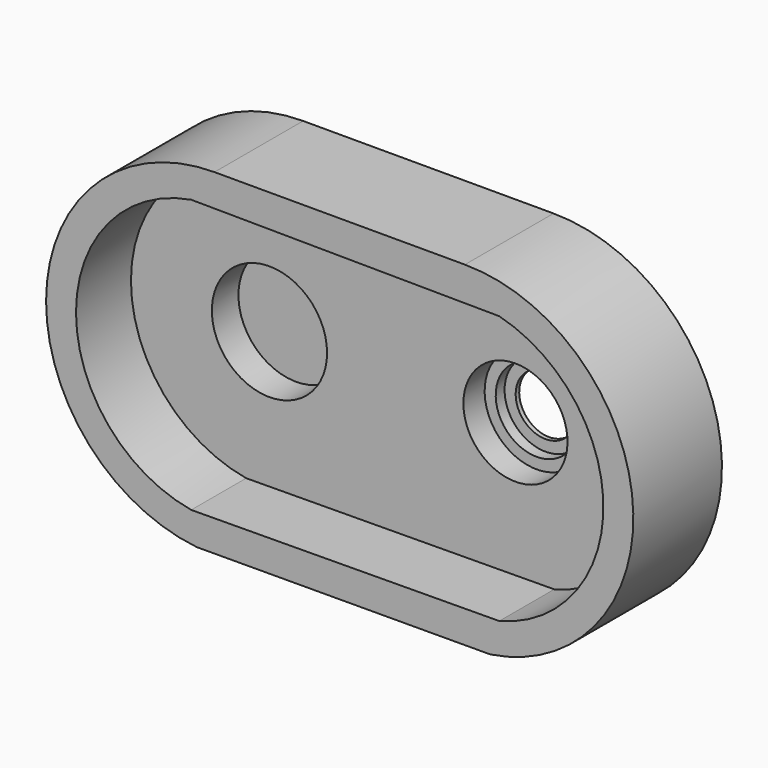
from build123d import *

# Parameters (mm, degrees)
F1_DEPTH = 50
F4_DEPTH = 47
F5_R     = 26
F6_DEPTH = 15
F8_W     = 2
F8_H     = 13.5


with BuildPart() as f1:
    # F0 (on Front) → F1 (new body)
    with BuildSketch(Plane.XZ):
        with BuildLine():
            ThreePointArc((56.5, 50.8306010195), (30.9263182623, 69.4230713721), (0, 76))
            ThreePointArc((0, 76), (-75.8948480637, 3.9965031459), (-7.9819473433, -75.5796832264))
            Line((-7.9819473433, -75.5796832264), (8.4910760519, -75.5241790917))
            ThreePointArc((8.4910760519, -75.5241790917), (34.7620941702, -67.5839981719), (56.5, -50.8306010195))
            ThreePointArc((56.5, -50.8306010195), (37, 0), (56.5, 50.8306010195))
        make_face()
        with BuildLine():
            Line((113, 76), (0, 76))
            ThreePointArc((0, 76), (30.9263182623, 69.4230713721), (56.5, 50.8306010195))
            ThreePointArc((56.5, 50.8306010195), (82.0736817377, 69.4230713721), (113, 76))
        make_face()
        with BuildLine():
            ThreePointArc((113, 76), (82.0736817377, 69.4230713721), (56.5, 50.8306010195))
            ThreePointArc((56.5, 50.8306010195), (76, 0), (56.5, -50.8306010195))
            ThreePointArc((56.5, -50.8306010195), (77.1458775127, -67.0110580477), (102.0628366951, -75.2088988009))
            Line((102.0628366951, -75.2088988009), (124.4437263036, -75.133488727))
            ThreePointArc((124.4437263036, -75.133488727), (188.7830625643, 5.7382426207), (113, 76))
        make_face()
        with BuildLine():
            ThreePointArc((56.5, -50.8306010195), (76, 0), (56.5, 50.8306010195))
            ThreePointArc((56.5, 50.8306010195), (37, 0), (56.5, -50.8306010195))
        make_face()
        with BuildLine():
            ThreePointArc((56.5, -50.8306010195), (34.7620941702, -67.5839981719), (8.4910760519, -75.5241790917))
            Line((8.4910760519, -75.5241790917), (102.0628366951, -75.2088988009))
            ThreePointArc((102.0628366951, -75.2088988009), (77.1458775127, -67.0110580477), (56.5, -50.8306010195))
        make_face()
    extrude(amount=F1_DEPTH)

    # F3 (on offset) → F4 (cut)
    with BuildSketch(Plane.XZ.offset(19)):
        with BuildLine():
            Line((-10.5, -61.611687203), (-10.5, 61.611687203))
            ThreePointArc((-10.5, 61.611687203), (-62.5, 0), (-10.5, -61.611687203))
        make_face()
        Polygon((128.5, 60.5475020129), (-10.5, 61.611687203), (-10.5, -61.611687203), (128.5, -60.5475020129), align=None)
        with BuildLine():
            ThreePointArc((128.5, -60.5475020129), (175.5, 0), (128.5, 60.5475020129))
            Line((128.5, 60.5475020129), (128.5, -60.5475020129))
        make_face()
    extrude(amount=F4_DEPTH, mode=Mode.SUBTRACT)

    # F5 (on offset) → F6 (cut)
    with BuildSketch(Plane.XZ.offset(19)):
        Circle(F5_R)
    extrude(amount=-F6_DEPTH, mode=Mode.SUBTRACT)

    # F8 (on offset) → F9 (revolve, cut)
    with BuildSketch(Plane.YZ.offset(111)):
        with Locations((-1, 6.75)):
            Rectangle(F8_W, F8_H)
        Polygon((-17, 0), (-2, 0), (-2, 13.5), (-2, 18.5), (-7, 18.5), (-7, 23.5), (-19, 23.5), (-19, 0), align=None)
    revolve(axis=Axis((111, -8.5, 0), (0, 1, 0)), mode=Mode.SUBTRACT)


solid = f1.part
